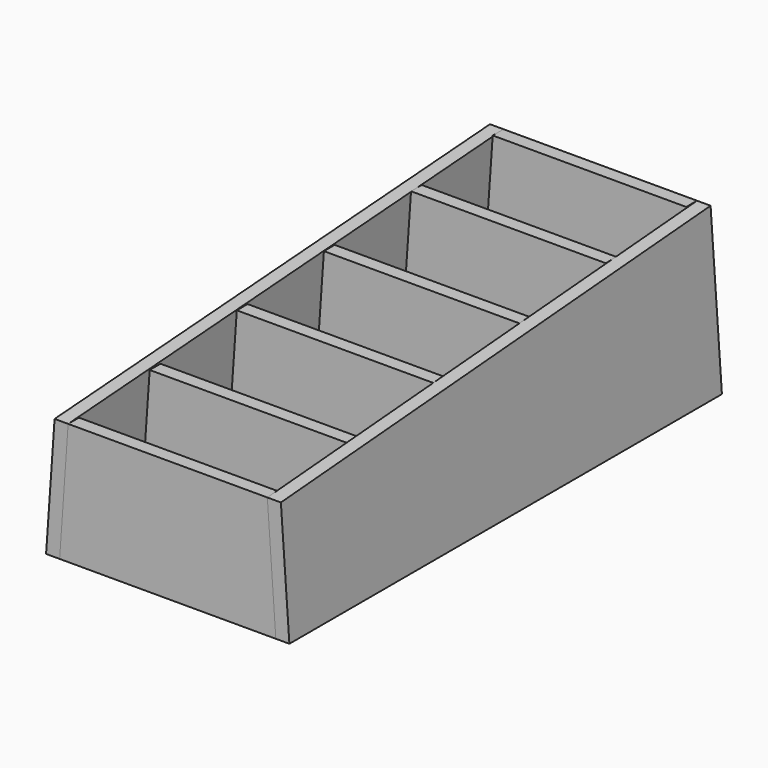
from build123d import *

# Parameters (mm, degrees)
F1_DEPTH       = 114.3
F3_DEPTH       = 528.32
F5_DEPTH       = 508
F8_DEPTH       = 12.7
F14_DEPTH      = 6.35
F14_DEPTH_BACK = 6.35
F16_DEPTH      = 6.35
F16_DEPTH_BACK = 6.35
F18_DEPTH      = 6.35
F18_DEPTH_BACK = 6.35
F21_DEPTH      = 6.35
F21_DEPTH_BACK = 6.35
F22_DEPTH      = 12.7
F24_DEPTH      = 482.6
F25_W          = 203.1379757887
F25_H          = 482.6
F26_DEPTH      = 12.7


with BuildPart() as f1:
    # F0 (on Right) → F1 (new body)
    with BuildSketch(Plane.YZ):
        Polygon((-508, 0), (0, 0), (0, 152.4), (-508, 114.3), align=None)
    extrude(amount=-F1_DEPTH)

    # F2 (on Front) → F3 (cut)
    with BuildSketch(Plane.XZ):
        Polygon((-133.1725418568, 0), (-114.3, 0), (-103.4560899626, 155.075138362), (-133.1725418568, 155.075138362), align=None)
    extrude(amount=F3_DEPTH, mode=Mode.SUBTRACT)

    # F4 (on Front) → F5 (cut)
    with BuildSketch(Plane.XZ):
        Polygon((0, 168.3597160092), (-90.1831365799, 162.8252596961), (-102.7114227376, -16.3375794131), (0, -16.3375794131), align=None)
    extrude(amount=F5_DEPTH, mode=Mode.SUBTRACT)


with BuildPart() as f6_1:
    # F6: instance of F1
    add(f1.part.mirror(Plane.YZ))


with BuildPart() as f8:
    # F7 (on face) → F8 (new body)
    with BuildSketch(Plane(origin=(0, 0, 0), x_dir=(-1, 0, 0), z_dir=(0, 1, 0))):
        Polygon((90.9121417542, 152.4), (-90.9121417542, 152.4), (-101.5689878944, 0), (101.5689878944, 0), align=None)
    extrude(amount=-F8_DEPTH)


with BuildPart() as f14:
    # F13 (on offset) → F14 (new body, two sides)
    with BuildSketch(Plane.XZ.offset(101.6)) as f14_sk:
        Polygon((-91.4449941175, 144.7798561883), (-101.5689878944, 0), (101.5689878944, 0), (91.4449941175, 144.7798561883), align=None)
    extrude(amount=F14_DEPTH)
    extrude(f14_sk.sketch, amount=-F14_DEPTH_BACK)


with BuildPart() as f16:
    # F15 (on offset) → F16 (new body, two sides)
    with BuildSketch(Plane.XZ.offset(203.2)) as f16_sk:
        Polygon((-92.0334642807, 136.3643407822), (-101.5689878944, 0), (101.5689878944, 0), (95.9908664227, 136.3643407822), align=None)
    extrude(amount=F16_DEPTH)
    extrude(f16_sk.sketch, amount=-F16_DEPTH_BACK)


with BuildPart() as f18:
    # F17 (on offset) → F18 (new body, two sides)
    with BuildSketch(Plane.XZ.offset(304.8)) as f18_sk:
        Polygon((-92.5814200962, 128.5282075405), (-101.5689878944, 0), (101.5689878944, 0), (97.6148098707, 128.5282075405), align=None)
    extrude(amount=F18_DEPTH)
    extrude(f18_sk.sketch, amount=-F18_DEPTH_BACK)


with BuildPart() as f21:
    # F20 (on offset) → F21 (new body, two sides)
    with BuildSketch(Plane.XZ.offset(406.4)) as f21_sk:
        Polygon((-93.1574158814, 120.2910840511), (-101.5689878944, 0), (101.5689878944, 0), (98.1075614691, 120.2910840511), align=None)
    extrude(amount=F21_DEPTH)
    extrude(f21_sk.sketch, amount=-F21_DEPTH_BACK)


with BuildPart() as f22:
    # F9 (on face) → F22 (new body)
    with BuildSketch(Plane.XZ.offset(508)):
        Polygon((-93.5763532892, 114.3), (-101.5689878944, 0), (101.5689878944, 0), (93.5763532892, 114.3), align=None)
    extrude(amount=-F22_DEPTH)


with BuildPart() as f24_tool:
    # F23 (on face) → F24 (new body, through all)
    with BuildSketch(Plane(origin=(0, -495.3, 0), x_dir=(-1, 0, 0), z_dir=(0, 1, 0))):
        Polygon((-100.6809173827, 12.7), (-101.5689878944, 0), (101.5689878944, 0), (100.6809173827, 12.7), align=None)
    extrude(amount=F24_DEPTH)


with BuildPart() as f14_1:
    add(f14.part)

    # F24: cut by f24_tool
    add(f24_tool.part, mode=Mode.SUBTRACT)


with BuildPart() as f16_1:
    add(f16.part)

    # F24: cut by f24_tool
    add(f24_tool.part, mode=Mode.SUBTRACT)


with BuildPart() as f18_1:
    add(f18.part)

    # F24: cut by f24_tool
    add(f24_tool.part, mode=Mode.SUBTRACT)


with BuildPart() as f21_1:
    add(f21.part)

    # F24: cut by f24_tool
    add(f24_tool.part, mode=Mode.SUBTRACT)


with BuildPart() as f26:
    # F25 (on Top) → F26 (new body)
    with BuildSketch(Plane.XY):
        with Locations((0, -254)):
            Rectangle(F25_W, F25_H)
    extrude(amount=F26_DEPTH)


solid = Compound([f1.part, f6_1.part, f8.part, f22.part, f14_1.part, f16_1.part, f18_1.part, f21_1.part, f26.part])
